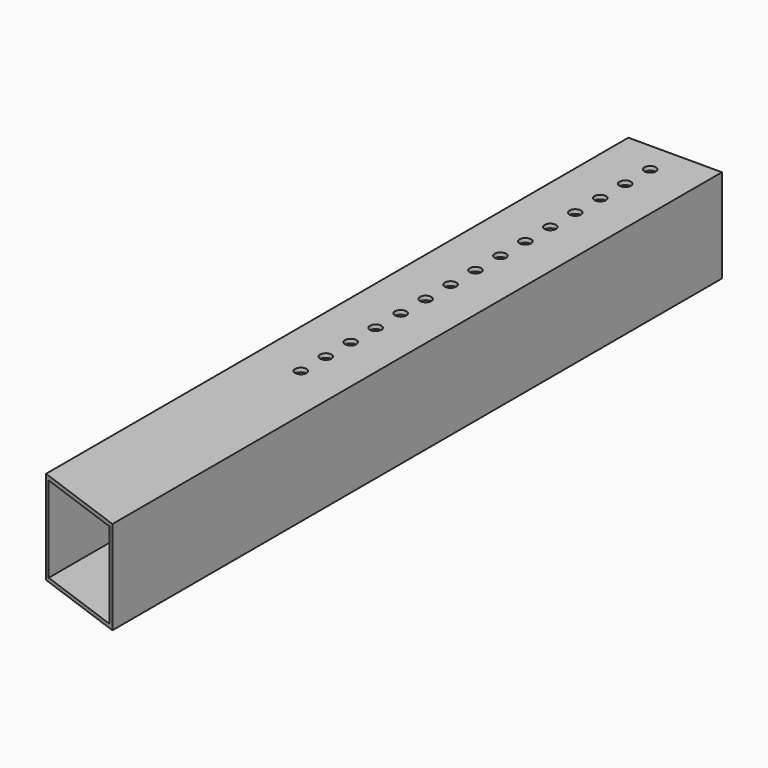
from build123d import *

# Parameters (mm, degrees)
F0_W     = 90
F0_H     = 90
F0_W_2   = 82.5
F0_H_2   = 82.5
F1_DEPTH = 700
F3_DEPTH = 90
F4_W     = 82.5
F4_H     = 82.5
F5_DEPTH = 40
F6_R     = 5.5
F7_DEPTH = 90.001


with BuildPart() as f1:
    # F0 (on Front) → F1 (new body)
    with BuildSketch(Plane.XZ):
        with Locations((45, 45)):
            Rectangle(F0_W, F0_H)
        with Locations((44.85, 44.85)):
            Rectangle(F0_W_2, F0_H_2, mode=Mode.SUBTRACT)
    extrude(amount=F1_DEPTH)

    # F2 (on face) → F3 (join)
    with BuildSketch(Plane.XY.offset(90)):
        Polygon((90, -700), (0, -700), (90, -732.757321), align=None)
    extrude(amount=-F3_DEPTH)

    # F4 (on face) → F5 (cut)
    with BuildSketch(Plane(origin=(0, -700, 0), x_dir=(-1, 0, 0), z_dir=(0, 1, 0))):
        with Locations((-44.85, 44.85)):
            Rectangle(F4_W, F4_H)
    extrude(amount=-F5_DEPTH, mode=Mode.SUBTRACT)

    # F6 (on face) → F7 (cut, through all)
    with BuildSketch(Plane.XY.offset(90)):
        with Locations((45, -30)):
            Circle(F6_R)
        with Locations((45, -60)):
            Circle(F6_R)
        with Locations((45, -90)):
            Circle(F6_R)
        with Locations((45, -120)):
            Circle(F6_R)
        with Locations((45, -150)):
            Circle(F6_R)
        with Locations((45, -180)):
            Circle(F6_R)
        with Locations((45, -210)):
            Circle(F6_R)
        with Locations((45, -240)):
            Circle(F6_R)
        with Locations((45, -270)):
            Circle(F6_R)
        with Locations((45, -300)):
            Circle(F6_R)
        with Locations((45, -330)):
            Circle(F6_R)
        with Locations((45, -360)):
            Circle(F6_R)
        with Locations((45, -390)):
            Circle(F6_R)
        with Locations((45, -420)):
            Circle(F6_R)
        with Locations((45, -450)):
            Circle(F6_R)
    extrude(amount=-F7_DEPTH, mode=Mode.SUBTRACT)


solid = f1.part
